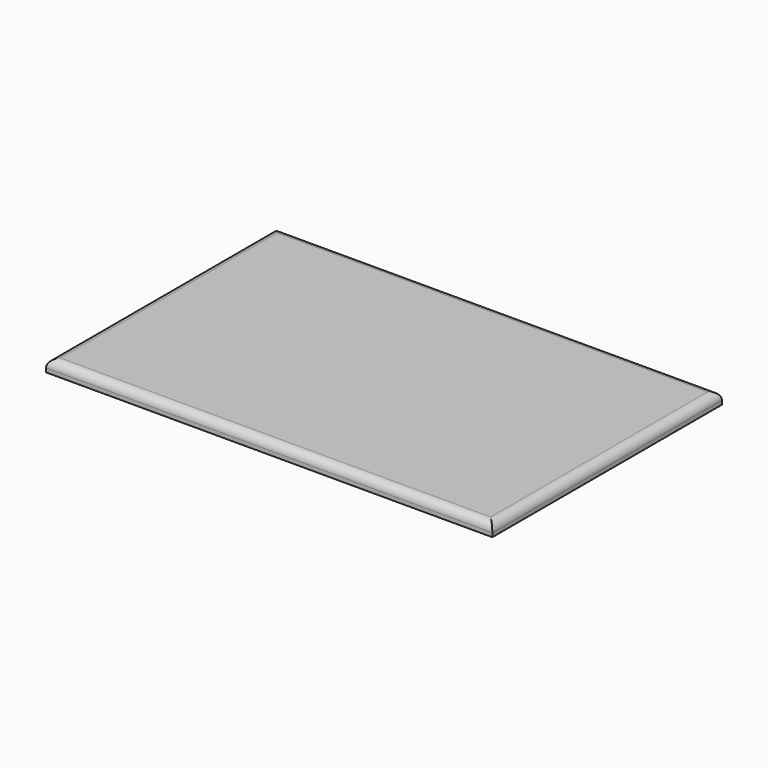
from build123d import *

# Parameters (mm, degrees)
F0_W     = 710.806813
F0_H     = 457.2
F1_DEPTH = 19.05
F2_R     = 12.7


with BuildPart() as f1:
    # F0 (on Top) → F1 (new body)
    with BuildSketch(Plane.XY):
        with Locations((-355.403406, 228.6)):
            Rectangle(F0_W, F0_H)
        with Locations((-355.403406, 228.6)):
            Rectangle(F0_W, F0_H)
    extrude(amount=F1_DEPTH)

    # F2
    f2_edges = [f1.edges().sort_by_distance(p)[0] for p in [
        (-710.806813, 228.6, 19.05),
        (-355.403406, 457.2, 19.05),
        (0, 228.6, 19.05),
        (-355.403406, 0, 19.05),
    ]]
    fillet(f2_edges, radius=F2_R)


solid = f1.part
